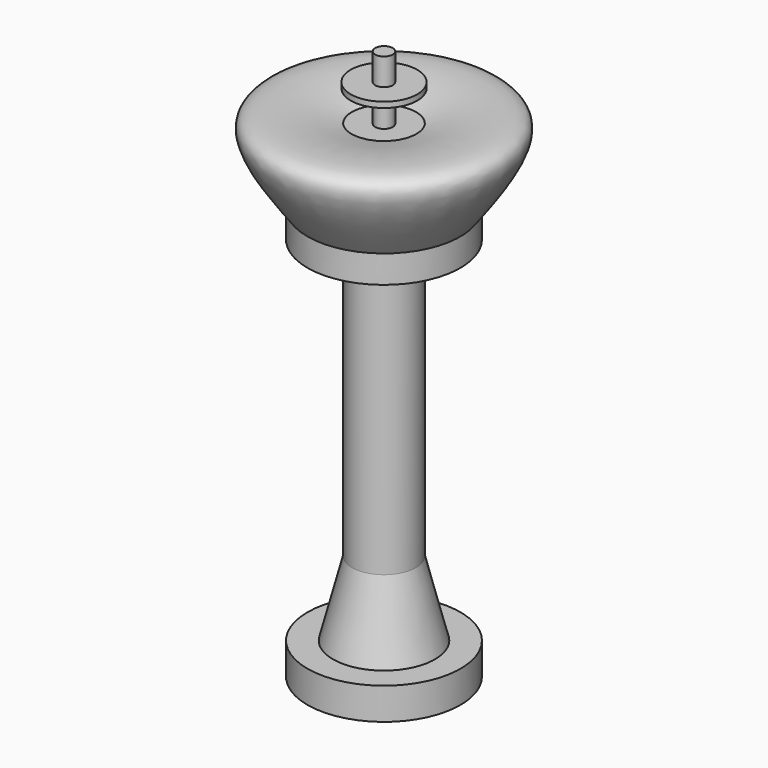
from build123d import *


with BuildPart() as f1:
    # F0 (on Front) → F1 (revolve)
    with BuildSketch(Plane.XZ):
        with BuildLine():
            Line((0, -36.2836048007), (0, 23.95648323))
            Line((0, 23.95648323), (-0.9631852736, 23.95648323))
            Line((-0.9631852736, 23.95648323), (-0.9631852736, 20.9946706891))
            Line((-0.9631852736, 20.9946706891), (-3.6400984973, 20.9946706891))
            Line((-3.6400984973, 20.9946706891), (-3.6400984973, 20.3832592815))
            Line((-3.6400984973, 20.3832592815), (-0.9631852736, 20.3832592815))
            Line((-0.9631852736, 20.3832592815), (-0.9631852736, 16.9788654894))
            Line((-0.9631852736, 16.9788654894), (-3.4888086375, 16.9788654894))
            add(Edge.make_bspline(
                [(-8.3731394261, 8.838314563), (-11.135456819, 12.6483323244), (-16.4619548759, 20.1128731042), (-3.6455209455, 17.2689128153), (-3.4888086375, 17.127500847), (-3.4888086375, 16.9788654894)],
                knots=[0, 0, 0, 0, 0.4716234996, 0.9126543996, 1, 1, 1, 1], degree=3))
            Line((-8.3731394261, 8.838314563), (-8.3731394261, 5.8146798983))
            Line((-8.3731394261, 5.8146798983), (-3.4888086375, 5.8146798983))
            Line((-3.4888086375, 5.8146798983), (-3.4888086375, -24.6542450041))
            Line((-3.4888086375, -24.6542450041), (-5.5820927955, -32.7947959304))
            Line((-5.5820927955, -32.7947959304), (-8.3731394261, -32.7947959304))
            Line((-8.3731394261, -32.7947959304), (-8.3731394261, -36.2836048007))
            Line((-8.3731394261, -36.2836048007), (0, -36.2836048007))
        make_face()
    revolve(axis=Axis((0, 0, -6.1635607854), (0, 0, -1)))


solid = f1.part
